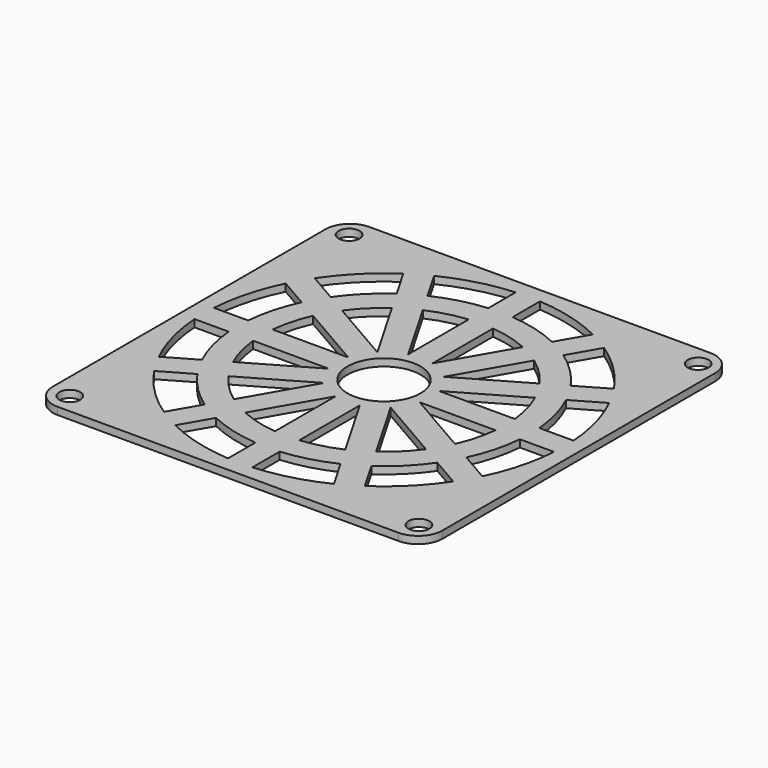
from build123d import *

# Parameters (mm, degrees)
F0_R     = 2.15
F2_DEPTH = 1.5
F1_R     = 30
F1_R_2   = 25
F3_DEPTH = 1.5
F4_R     = 7.5
F5_DEPTH = 25


with BuildPart() as f2:
    # F0 (on Top) → F2 (new body)
    with BuildSketch(Plane.XY):
        with BuildLine():
            ThreePointArc((40, 0), (28.2842712475, 28.2842712475), (0, 40))
            ThreePointArc((0, 40), (-28.2842712475, 28.2842712475), (-40, 0))
            ThreePointArc((-40, 0), (-28.2842712475, -28.2842712475), (0, -40))
            ThreePointArc((0, -40), (28.2842712475, -28.2842712475), (40, 0))
        make_face()
        with BuildLine():
            ThreePointArc((36.9154439226, 2.5), (36.9788549386, 1.2507147687), (37, 0))
            ThreePointArc((37, 0), (36.9788549386, -1.2507147687), (36.9154439226, -2.5))
            ThreePointArc((36.9154439226, -2.5), (35.7392555727, -9.5763046688), (33.2197122289, -16.2926584518))
            ThreePointArc((33.2197122289, -16.2926584518), (32.04293994, -18.5), (30.7197122289, -20.6227854707))
            ThreePointArc((30.7197122289, -20.6227854707), (26.1629509039, -26.1629509039), (20.6227854707, -30.7197122289))
            ThreePointArc((20.6227854707, -30.7197122289), (18.5, -32.04293994), (16.2926584518, -33.2197122289))
            ThreePointArc((16.2926584518, -33.2197122289), (9.5763046688, -35.7392555727), (2.5, -36.9154439226))
            ThreePointArc((2.5, -36.9154439226), (0, -37), (-2.5, -36.9154439226))
            ThreePointArc((-2.5, -36.9154439226), (-9.5763046688, -35.7392555727), (-16.2926584518, -33.2197122289))
            ThreePointArc((-16.2926584518, -33.2197122289), (-18.5, -32.04293994), (-20.6227854707, -30.7197122289))
            ThreePointArc((-20.6227854707, -30.7197122289), (-26.1629509039, -26.1629509039), (-30.7197122289, -20.6227854707))
            ThreePointArc((-30.7197122289, -20.6227854707), (-32.04293994, -18.5), (-33.2197122289, -16.2926584518))
            ThreePointArc((-33.2197122289, -16.2926584518), (-35.7392555727, -9.5763046688), (-36.9154439226, -2.5))
            ThreePointArc((-36.9154439226, -2.5), (-37, 0), (-36.9154439226, 2.5))
            ThreePointArc((-36.9154439226, 2.5), (-35.7392555727, 9.5763046688), (-33.2197122289, 16.2926584518))
            ThreePointArc((-33.2197122289, 16.2926584518), (-32.04293994, 18.5), (-30.7197122289, 20.6227854707))
            ThreePointArc((-30.7197122289, 20.6227854707), (-26.1629509039, 26.1629509039), (-20.6227854707, 30.7197122289))
            ThreePointArc((-20.6227854707, 30.7197122289), (-18.5, 32.04293994), (-16.2926584518, 33.2197122289))
            ThreePointArc((-16.2926584518, 33.2197122289), (-9.5763046688, 35.7392555727), (-2.5, 36.9154439226))
            ThreePointArc((-2.5, 36.9154439226), (0, 37), (2.5, 36.9154439226))
            ThreePointArc((2.5, 36.9154439226), (9.5763046688, 35.7392555727), (16.2926584518, 33.2197122289))
            ThreePointArc((16.2926584518, 33.2197122289), (18.5, 32.04293994), (20.6227854707, 30.7197122289))
            ThreePointArc((20.6227854707, 30.7197122289), (26.1629509039, 26.1629509039), (30.7197122289, 20.6227854707))
            ThreePointArc((30.7197122289, 20.6227854707), (32.04293994, 18.5), (33.2197122289, 16.2926584518))
            ThreePointArc((33.2197122289, 16.2926584518), (35.7392555727, 9.5763046688), (36.9154439226, 2.5))
        make_face(mode=Mode.SUBTRACT)
        with BuildLine():
            ThreePointArc((36.9154439226, -2.5), (36.9788549386, -1.2507147687), (37, 0))
            ThreePointArc((37, 0), (36.9788549386, 1.2507147687), (36.9154439226, 2.5))
            Line((36.9154439226, 2.5), (9.3301270189, 2.5))
            Line((9.3301270189, 2.5), (33.2197122289, 16.2926584518))
            ThreePointArc((33.2197122289, 16.2926584518), (32.04293994, 18.5), (30.7197122289, 20.6227854707))
            Line((30.7197122289, 20.6227854707), (6.8301270189, 6.8301270189))
            Line((6.8301270189, 6.8301270189), (20.6227854707, 30.7197122289))
            ThreePointArc((20.6227854707, 30.7197122289), (18.5, 32.04293994), (16.2926584518, 33.2197122289))
            Line((16.2926584518, 33.2197122289), (2.5, 9.3301270189))
            Line((2.5, 9.3301270189), (2.5, 36.9154439226))
            ThreePointArc((2.5, 36.9154439226), (0, 37), (-2.5, 36.9154439226))
            Line((-2.5, 36.9154439226), (-2.5, 9.3301270189))
            Line((-2.5, 9.3301270189), (-16.2926584518, 33.2197122289))
            ThreePointArc((-16.2926584518, 33.2197122289), (-18.5, 32.04293994), (-20.6227854707, 30.7197122289))
            Line((-20.6227854707, 30.7197122289), (-6.8301270189, 6.8301270189))
            Line((-6.8301270189, 6.8301270189), (-30.7197122289, 20.6227854707))
            ThreePointArc((-30.7197122289, 20.6227854707), (-32.04293994, 18.5), (-33.2197122289, 16.2926584518))
            Line((-33.2197122289, 16.2926584518), (-9.3301270183, 2.5))
            Line((-9.3301270183, 2.5), (-36.9154439226, 2.5))
            ThreePointArc((-36.9154439226, 2.5), (-37, 0), (-36.9154439226, -2.5))
            Line((-36.9154439226, -2.5), (-9.3301270189, -2.5))
            Line((-9.3301270189, -2.5), (-33.2197122289, -16.2926584518))
            ThreePointArc((-33.2197122289, -16.2926584518), (-32.04293994, -18.5), (-30.7197122289, -20.6227854707))
            Line((-30.7197122289, -20.6227854707), (-6.8301270191, -6.830127019))
            Line((-6.8301270191, -6.830127019), (-20.6227854707, -30.7197122289))
            ThreePointArc((-20.6227854707, -30.7197122289), (-18.5, -32.04293994), (-16.2926584518, -33.2197122289))
            Line((-16.2926584518, -33.2197122289), (-2.5, -9.3301270189))
            Line((-2.5, -9.3301270189), (-2.5, -36.9154439226))
            ThreePointArc((-2.5, -36.9154439226), (0, -37), (2.5, -36.9154439226))
            Line((2.5, -36.9154439226), (2.5, -9.3301270189))
            Line((2.5, -9.3301270189), (16.2926584518, -33.2197122289))
            ThreePointArc((16.2926584518, -33.2197122289), (18.5, -32.04293994), (20.6227854707, -30.7197122289))
            Line((20.6227854707, -30.7197122289), (6.8301270189, -6.8301270189))
            Line((6.8301270189, -6.8301270189), (30.7197122289, -20.6227854707))
            ThreePointArc((30.7197122289, -20.6227854707), (32.04293994, -18.5), (33.2197122289, -16.2926584518))
            Line((33.2197122289, -16.2926584518), (9.3301270189, -2.5))
            Line((9.3301270189, -2.5), (36.9154439226, -2.5))
        make_face()
        with BuildLine():
            Line((0, 40), (-35, 40))
            ThreePointArc((-35, 40), (-38.5355339059, 38.5355339059), (-40, 35))
            Line((-40, 35), (-40, 0))
            ThreePointArc((-40, 0), (-28.2842712475, 28.2842712475), (0, 40))
        make_face()
        with Locations((-35.85, 35.85)):
            Circle(F0_R, mode=Mode.SUBTRACT)
        with BuildLine():
            ThreePointArc((0, -40), (-28.2842712475, -28.2842712475), (-40, 0))
            Line((-40, 0), (-40, -35))
            ThreePointArc((-40, -35), (-38.5355339059, -38.5355339059), (-35, -40))
            Line((-35, -40), (0, -40))
        make_face()
        with Locations((-35.85, -35.85)):
            Circle(F0_R, mode=Mode.SUBTRACT)
        with BuildLine():
            Line((35, 40), (0, 40))
            ThreePointArc((0, 40), (28.2842712475, 28.2842712475), (40, 0))
            Line((40, 0), (40, 35))
            ThreePointArc((40, 35), (38.5355339059, 38.5355339059), (35, 40))
        make_face()
        with Locations((35.85, 35.85)):
            Circle(F0_R, mode=Mode.SUBTRACT)
        with BuildLine():
            Line((40, -35), (40, 0))
            ThreePointArc((40, 0), (28.2842712475, -28.2842712475), (0, -40))
            Line((0, -40), (35, -40))
            ThreePointArc((35, -40), (38.5355339059, -38.5355339059), (40, -35))
        make_face()
        with Locations((35.85, -35.85)):
            Circle(F0_R, mode=Mode.SUBTRACT)
    extrude(amount=F2_DEPTH)

    # F1 (on Top) → F3 (join)
    with BuildSketch(Plane.XY):
        Circle(F1_R)
        Circle(F1_R_2, mode=Mode.SUBTRACT)
    extrude(amount=F3_DEPTH)

    # F4 (on face) → F5 (cut)
    with BuildSketch(Plane.XY.offset(1.5)):
        Circle(F4_R)
    extrude(amount=-F5_DEPTH, mode=Mode.SUBTRACT)


solid = f2.part
